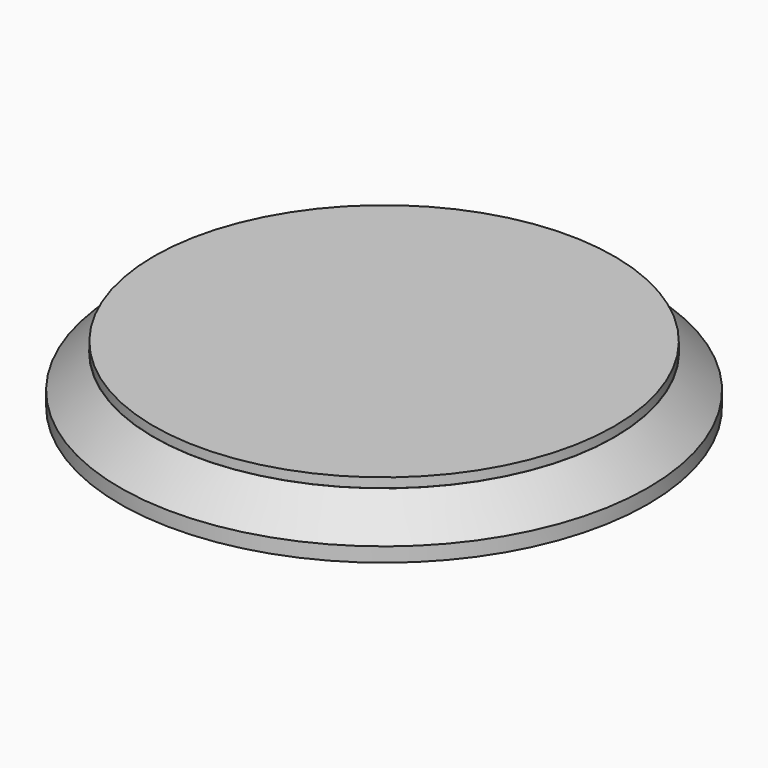
from build123d import *

# Parameters (mm, degrees)
F0_R     = 55
F1_DEPTH = 10
F2_SIZE  = 7
F3_R     = 29.5
F4_DEPTH = 7
F4_TAPER = 4
F5_R     = 22
F6_DEPTH = 7
F6_TAPER = -3
F8_R     = 47.9629336629
F9_DEPTH = 2


with BuildPart() as f1:
    # F0 (on Top) → F1 (new body)
    with BuildSketch(Plane.XY):
        Circle(F0_R)
    extrude(amount=F1_DEPTH)

    # F2
    f2_edges = [f1.edges().sort_by_distance(p)[0] for p in [
        (-55, 0, 10),
    ]]
    chamfer(f2_edges, length=F2_SIZE)

    # F3 (on face) → F4 (cut)
    with BuildSketch(Plane.XY.offset(10)):
        Circle(F3_R)
    extrude(amount=-F4_DEPTH, taper=F4_TAPER, mode=Mode.SUBTRACT)


with BuildPart() as f6:
    # F5 (on face) → F6 (new body, through all)
    with BuildSketch(Plane.XY.offset(3)):
        Circle(F5_R)
    extrude(amount=F6_DEPTH, taper=F6_TAPER)

    # F8 (on offset) → F9 (join)
    with BuildSketch(Plane.XY.offset(10)):
        Circle(F8_R)
    extrude(amount=F9_DEPTH)


solid = Compound([f1.part, f6.part])
